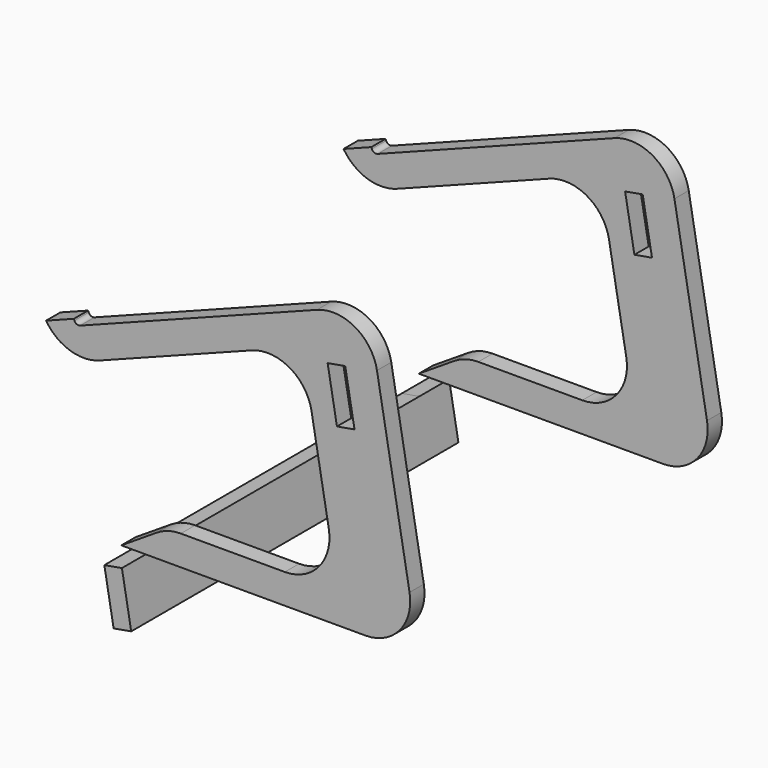
from build123d import *

# Parameters (mm, degrees)
F1_DEPTH = 12
F3_DEPTH = 12.001
F6_DEPTH = 250
F7_DEPTH = 25


with BuildPart() as f1:
    # F0 (on Front) → F1 (new body)
    with BuildSketch(Plane.XZ):
        with BuildLine():
            Line((-177.258248, 122.800741), (-177.616616, 123.734322))
            Line((-177.616616, 123.734322), (-196.288224, 116.566963))
            ThreePointArc((-196.288224, 116.566963), (-180.094478, 104.110785), (-159.679981, 104.912071))
            Line((-159.679981, 104.912071), (-58.121695, 143.896644))
            ThreePointArc((-58.121695, 143.896644), (-32.59795, 141.999902), (-17.826424, 121.098677))
            Line((-17.826424, 121.098677), (-6.208375, 55.209445))
            ThreePointArc((-6.208375, 55.209445), (-12.771274, 30.716372), (-35.752608, 20))
            Line((-35.752608, 20), (-105.70213, 20))
            ThreePointArc((-105.70213, 20), (-114.134669, 18.790489), (-121.887258, 15.259486))
            Line((-121.887258, 15.259486), (-145.70213, 0))
            Line((-145.70213, 0), (18.545262, 0))
            ThreePointArc((18.545262, 0), (41.526596, 10.716372), (48.089495, 35.209445))
            Line((48.089495, 35.209445), (26.188308, 159.417249))
            ThreePointArc((26.188308, 159.417249), (11.416782, 180.318475), (-14.106963, 182.215217))
            Line((-14.106963, 182.215217), (-173.382403, 121.075104))
            ThreePointArc((-173.382403, 121.075104), (-175.677717, 121.135209), (-177.258248, 122.800741))
        make_face()
    extrude(amount=F1_DEPTH)

    # F2 (on face) → F3 (cut, through all)
    with BuildSketch(Plane.XZ.offset(12)):
        Polygon((4.833857, 155.072484), (-6.983836, 152.988705), (-0.732502, 117.535626), (11.085191, 119.619404), align=None)
    extrude(amount=-F3_DEPTH, mode=Mode.SUBTRACT)


with BuildPart() as f4_1:
    # F4: copy of F1
    add(f1.part.moved(Location((0, 250, 0))))


with BuildPart() as f6:
    # F5 (on face) → F6 (new body)
    with BuildSketch(Plane.XZ.offset(-238)):
        Polygon((-145.30246, -13.312878), (-157.120153, -15.396656), (-150.868818, -50.849736), (-139.051125, -48.765957), align=None)
    extrude(amount=F6_DEPTH)

    # F6_face (on face) → F7 (join)
    with BuildSketch(Plane(origin=(-148.085639, 238, -32.081307), x_dir=(1, 0, 0), z_dir=(0, 1, 0))):
        Polygon((9.034514, 16.68465), (-2.783179, 18.768429), (-9.034514, -16.68465), (2.783179, -18.768429), align=None)
    extrude(amount=F7_DEPTH)


solid = Compound([f1.part, f4_1.part, f6.part])
